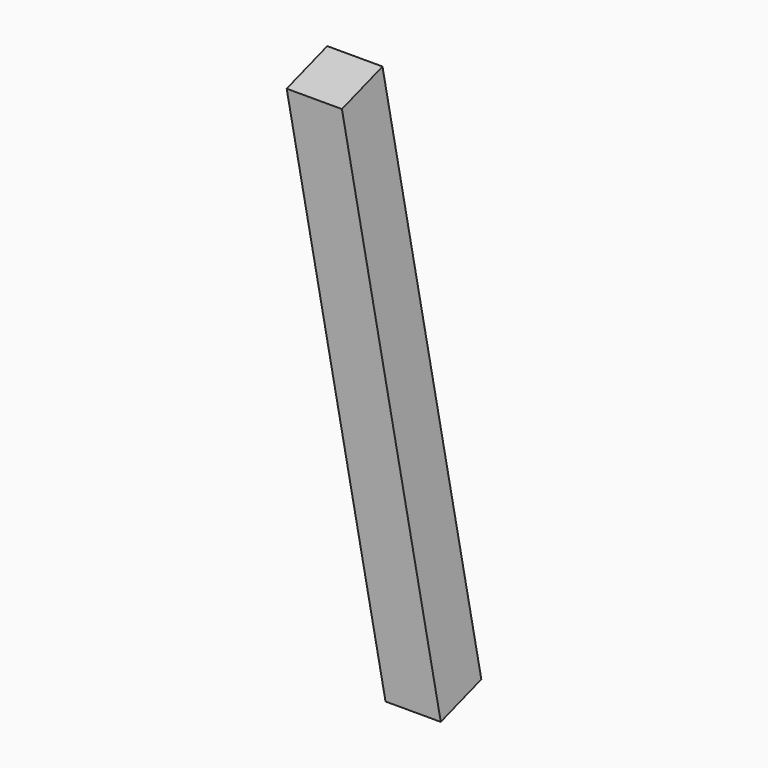
from build123d import *

# Parameters (mm, degrees)
F1_DEPTH = 80
F3_DEPTH = 300


with BuildPart() as f1:
    # F0 (on Front) → F1 (new body)
    with BuildSketch(Plane.XZ):
        Polygon((0, 0), (-150, 770), (-231.503828, 770), (-84.893518, 17.40041), (-81.503828, 0), align=None)
    extrude(amount=-F1_DEPTH)

    # F2 (on Right) → F3 (cut)
    with BuildSketch(Plane.YZ):
        Polygon((116.673645, 31.262609), (0, 0), (116.673645, 0), align=None)
        Polygon((-37.184286, 738.600565), (80, 770), (-37.184286, 770), align=None)
    extrude(amount=-F3_DEPTH, mode=Mode.SUBTRACT)


solid = f1.part
